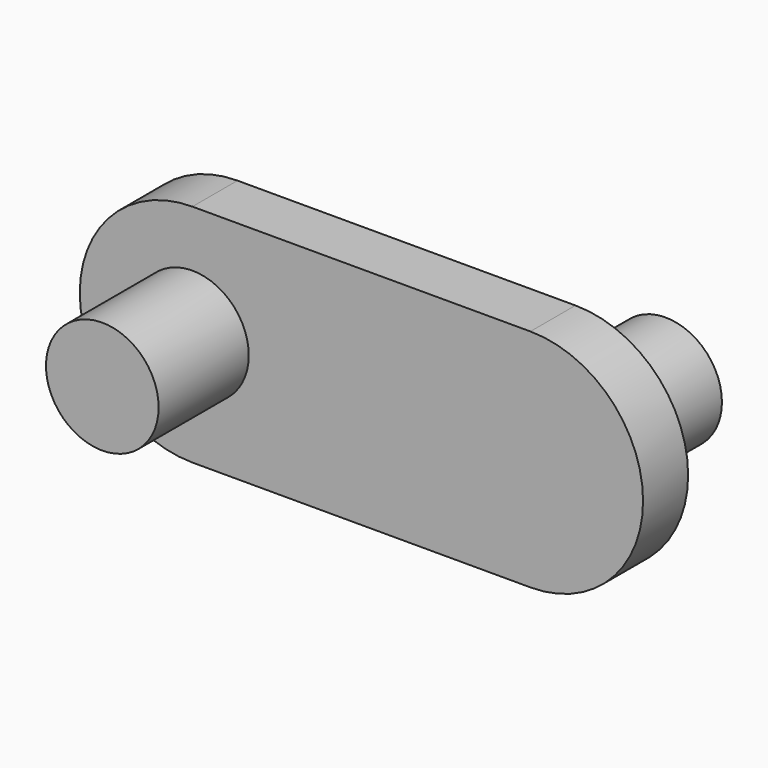
from build123d import *

# Parameters (mm, degrees)
F0_R          = 5
F1_DEPTH      = 5
F2_DEPTH      = 15
F3_DEPTH      = 10
F3_DEPTH_BACK = 5


with BuildPart() as f1:
    # F0 (on Front) → F1 (new body)
    with BuildSketch(Plane.XZ):
        with BuildLine():
            Line((30, 10), (0, 10))
            ThreePointArc((0, 10), (-10, 0), (0, -10))
            Line((0, -10), (30, -10))
            ThreePointArc((30, -10), (40, 0), (30, 10))
        make_face()
        Circle(F0_R, mode=Mode.SUBTRACT)
        with Locations((30, 0)):
            Circle(F0_R, mode=Mode.SUBTRACT)
    extrude(amount=F1_DEPTH)

    # F0 (on Front) → F2 (join)
    with BuildSketch(Plane.XZ):
        Circle(F0_R)
    extrude(amount=F2_DEPTH)

    # F0 (on Front) → F3 (join, two sides)
    with BuildSketch(Plane.XZ) as f3_sk:
        with Locations((30, 0)):
            Circle(F0_R)
    extrude(amount=-F3_DEPTH)
    extrude(f3_sk.sketch, amount=F3_DEPTH_BACK)


solid = f1.part
